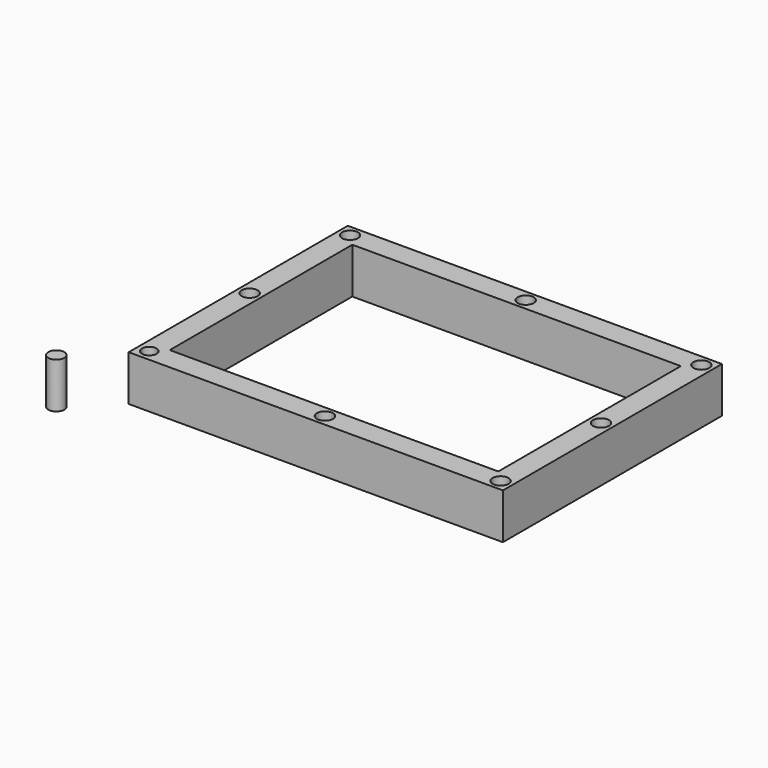
from build123d import *

# Parameters (mm, degrees)
F0_W     = 12.7
F0_H     = 12.7
F0_R     = 4.445
F0_H_2   = 127
F1_DEPTH = 25.4


with BuildPart() as f1:
    # F0 (on Top) → F1 (new body)
    with BuildSketch(Plane.XY):
        with Locations((-91.943704, 83.40115)):
            Rectangle(F0_W, F0_H)
        with Locations((-91.943704, 83.40115)):
            Circle(F0_R, mode=Mode.SUBTRACT)
        Polygon((97.281568, 89.75115), (-85.593704, 89.75115), (-85.593704, 77.05115), (97.286296, 77.05115), align=None)
        with Locations((5.846296, 83.40115)):
            Circle(F0_R, mode=Mode.SUBTRACT)
        with Locations((-91.943704, 13.55115)):
            Rectangle(F0_W, F0_H_2)
        with Locations((-91.943704, 13.55115)):
            Circle(F0_R, mode=Mode.SUBTRACT)
        Polygon((109.986296, 89.75115), (97.281568, 89.75115), (97.286296, 77.05115), (97.286296, -49.94885), (109.986296, -49.94885), align=None)
        with Locations((103.636296, 13.55115)):
            Circle(F0_R, mode=Mode.SUBTRACT)
        with Locations((103.636296, 83.40115)):
            Circle(F0_R, mode=Mode.SUBTRACT)
        with BuildLine():
            Line((-85.593704, -49.94885), (-98.293704, -49.94885))
            Line((-98.293704, -49.94885), (-98.293704, -56.29885))
            Line((-98.293704, -56.29885), (-96.023824, -56.29885))
            ThreePointArc((-96.023824, -56.29885), (-91.943704, -52.21873), (-87.863585, -56.29885))
            Line((-87.863585, -56.29885), (-85.620091, -56.29885))
            Line((-85.620091, -56.29885), (-85.593704, -62.64885))
            Line((-85.593704, -62.64885), (97.286296, -62.64885))
            Line((97.286296, -62.64885), (97.286296, -49.94885))
            Line((97.286296, -49.94885), (-85.593704, -49.94885))
        make_face()
        with Locations((5.846296, -56.29885)):
            Circle(F0_R, mode=Mode.SUBTRACT)
        with BuildLine():
            Line((-96.023824, -56.29885), (-98.293704, -56.29885))
            Line((-98.293704, -56.29885), (-98.293704, -62.64885))
            Line((-98.293704, -62.64885), (-85.593704, -62.64885))
            Line((-85.593704, -62.64885), (-85.620091, -56.29885))
            Line((-85.620091, -56.29885), (-87.863585, -56.29885))
            ThreePointArc((-87.863585, -56.29885), (-91.943704, -60.37897), (-96.023824, -56.29885))
        make_face()
        with Locations((103.636296, -56.29885)):
            Rectangle(F0_W, F0_H)
        with Locations((103.636296, -56.29885)):
            Circle(F0_R, mode=Mode.SUBTRACT)
        with Locations((-121.234387, -84.355846)):
            Circle(F0_R)
    extrude(amount=F1_DEPTH)


solid = f1.part
